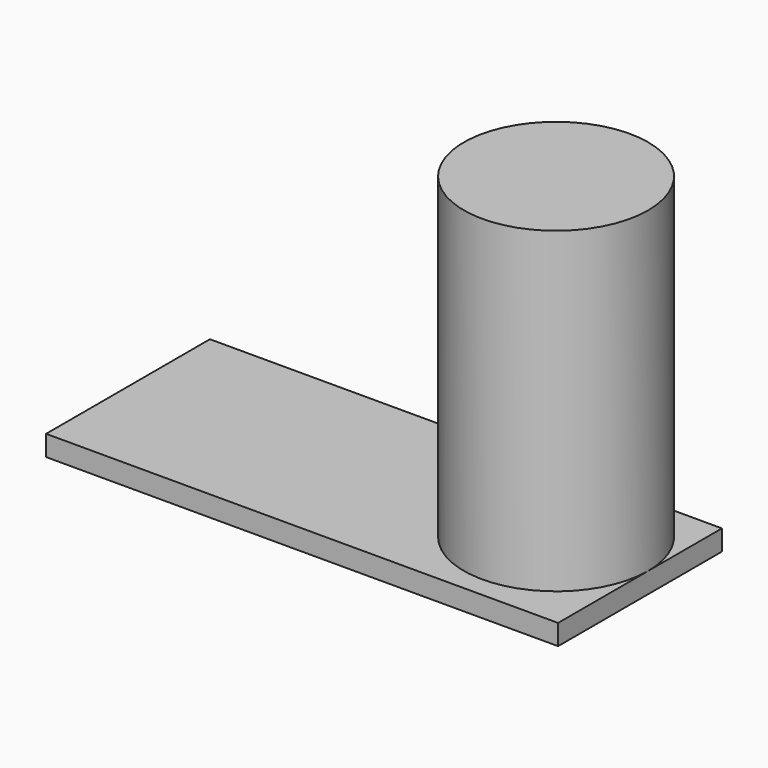
from build123d import *

# Parameters (mm, degrees)
SKETCH_W     = 50
SKETCH_H     = 20
PAD_DEPTH    = 2
SKETCH001_R  = 9
PAD001_DEPTH = 31


with BuildPart() as pcb:
    # Sketch → Pad (new body)
    with BuildSketch(Plane.XY):
        Rectangle(SKETCH_W, SKETCH_H)
    extrude(amount=PAD_DEPTH)


with BuildPart() as capacitor:
    # Sketch001 → Pad001 (new body)
    with BuildSketch(Plane.XY.offset(2)):
        with Locations((16, 1)):
            Circle(SKETCH001_R)
    extrude(amount=PAD001_DEPTH)


solid = Compound([pcb.part, capacitor.part])
